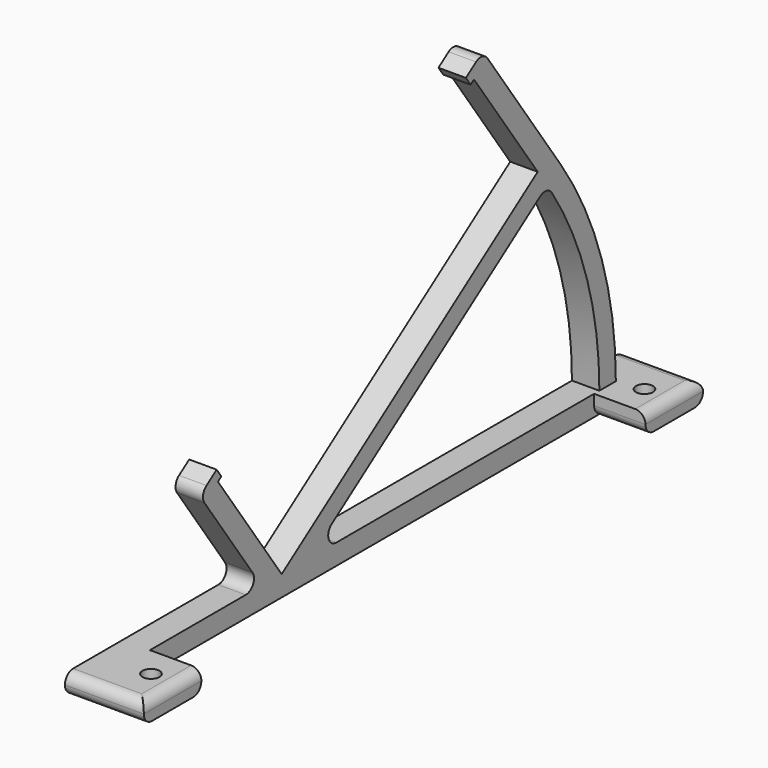
from build123d import *

# Parameters (mm, degrees)
SKETCH_W     = 5.34
SKETCH_H     = 136
PAD_DEPTH    = 4
PAD001_DEPTH = 5.34
SKETCH002_W  = 10
SKETCH002_H  = 14
SKETCH002_R  = 1.65
PAD002_DEPTH = 4
FILLET_R     = 2
FILLET001_R  = 1.99


with BuildPart() as part:
    # Sketch → Pad (new body)
    with BuildSketch(Plane.XY):
        with Locations((-2.67, 0)):
            Rectangle(SKETCH_W, SKETCH_H)
    extrude(amount=-PAD_DEPTH)

    # Sketch001 → Pad001 (join)
    with BuildSketch(Plane.YZ):
        with BuildLine():
            ThreePointArc((59.287408, 0), (55.84916, 22.338654), (45.852682, 42.609507))
            Line((45.852682, 42.609507), (28.071813, 68.00322))
            Line((26.92466, 69.641524), (28.071813, 68.00322))
            Line((22.828899, 66.773642), (26.92466, 69.641524))
            Line((23.976052, 65.135338), (22.828899, 66.773642))
            Line((24.795204, 65.708914), (23.976052, 65.135338))
            Line((24.795204, 65.708914), (40.281768, 43.591809))
            Line((40.281768, 43.591809), (-21.973787, 0))
            Line((-21.973787, 0), (-37.460351, 22.117105))
            Line((-36.641199, 22.690682), (-37.460351, 22.117105))
            Line((-37.788352, 24.328986), (-36.641199, 22.690682))
            Line((-41.884112, 21.461104), (-37.788352, 24.328986))
            Line((-40.736959, 19.822799), (-41.884112, 21.461104))
            Line((-40.736959, 19.822799), (-26.856886, 0))
            Line((-26.856886, 0), (-26.856886, -1))
            Line((-26.856886, -1), (-15, -1))
            Line((-15, -1), (-15, 0))
            Line((-15, 0), (42.576074, 40.315201))
            ThreePointArc((55.287408, 0), (52.034292, 21.135831), (42.576074, 40.315201))
            Line((55.287408, 0), (59.287408, 0))
        make_face()
    extrude(amount=-PAD001_DEPTH)

    # Sketch002 → Pad002 (join)
    with BuildSketch(Plane.XY):
        with Locations((5, 61)):
            Rectangle(SKETCH002_W, SKETCH002_H)
        with Locations((5, 60)):
            Circle(SKETCH002_R, mode=Mode.SUBTRACT)
        with Locations((5, -61)):
            Rectangle(SKETCH002_W, SKETCH002_H)
        with Locations((5, -60)):
            Circle(SKETCH002_R, mode=Mode.SUBTRACT)
    extrude(amount=-PAD002_DEPTH)

    # Fillet
    fillet_edges = [part.edges().sort_by_distance(p)[0] for p in [
        (10, 61, 0),
        (10, -61, 0),
        (5, -68, 0),
        (5, 68, 0),
        (-2.67, -26.856886, 0),
        (-2.67, -15, 0),
        (-2.67, 42.576074, 40.315201),
    ]]
    fillet(fillet_edges, radius=FILLET_R)

    # Fillet001
    fillet001_edges = [part.edges().sort_by_distance(p)[0] for p in [
        (5, -68, -4),
        (5, 68, -4),
        (5, 54, -4),
        (5, -54, -4),
        (-2.67, -41.884112, 21.461104),
        (-2.67, 26.92466, 69.641524),
    ]]
    fillet(fillet001_edges, radius=FILLET001_R)


solid = part.part
